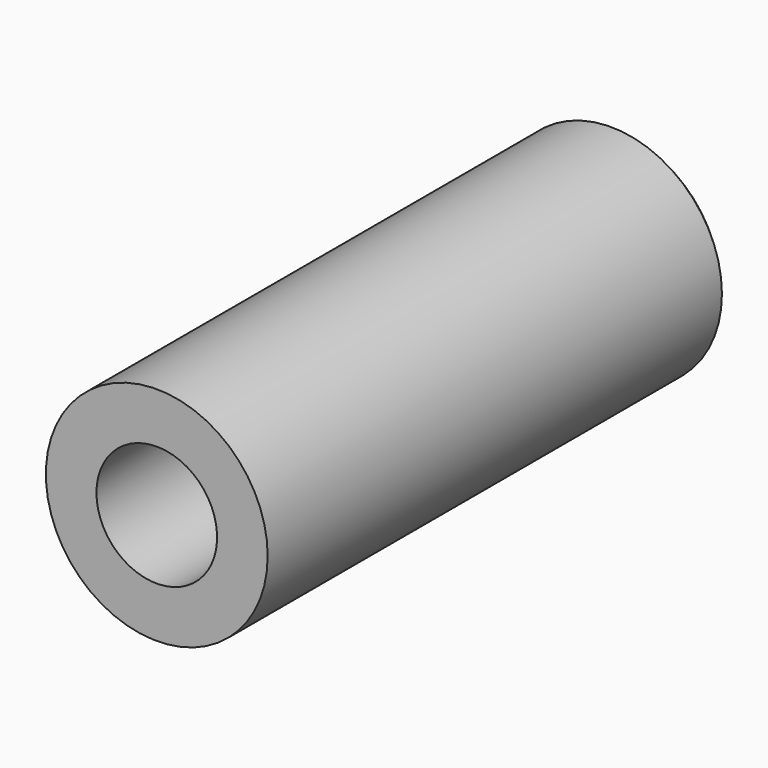
from build123d import *

# Parameters (mm, degrees)
F0_R     = 3.175
F1_DEPTH = 16.51
F3_D     = 3.4544
F3_DEPTH = 5.08
F3_TIP   = 1.0378064612
F4_SIZE  = 0.254


with BuildPart() as f1:
    # F0 (on Front) → F1 (new body)
    with BuildSketch(Plane.XZ):
        Circle(F0_R)
    extrude(amount=F1_DEPTH)

    # F3
    with Locations(Plane.XZ.offset(16.51)):
        with Locations((0, 0)):
            Hole(F3_D / 2, depth=F3_DEPTH)
            with Locations((0, 0, -(F3_DEPTH + F3_TIP / 2))):  # 118° drill point
                Cone(0, F3_D / 2, F3_TIP, mode=Mode.SUBTRACT)

    # F4
    f4_edges = [f1.edges().sort_by_distance(p)[0] for p in [
        (-3.175, 0, 0),
    ]]
    chamfer(f4_edges, length=F4_SIZE)


solid = f1.part
